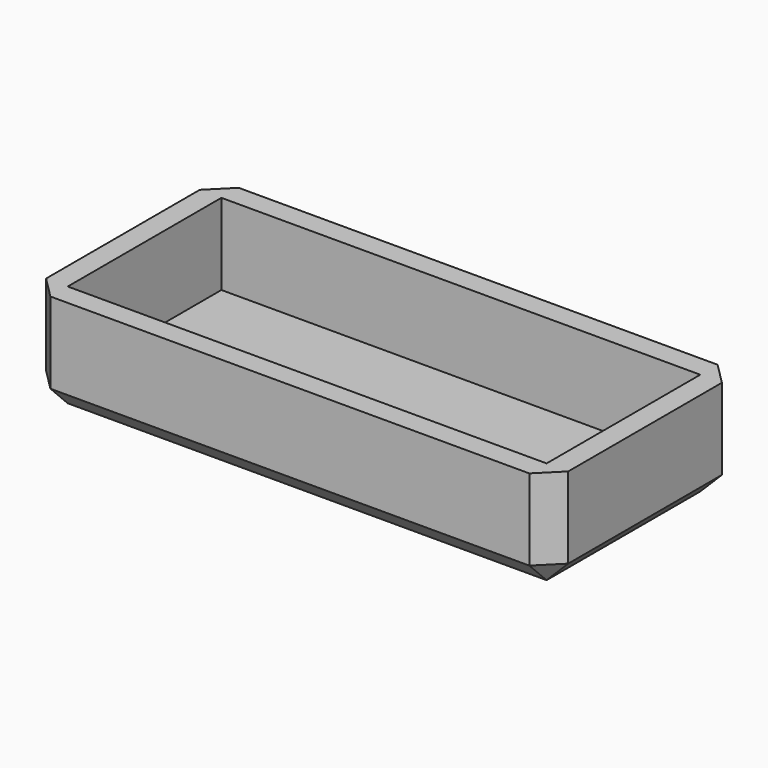
from build123d import *

# Parameters (mm, degrees)
F0_W     = 49.022
F0_H     = 22.098
F1_DEPTH = 9.652
F3_DEPTH = 7.62
F4_SIZE  = 2.032


with BuildPart() as f1:
    # F0 (on Top) → F1 (new body)
    with BuildSketch(Plane.XY):
        Rectangle(F0_W, F0_H)
    extrude(amount=F1_DEPTH)

    # F2 (on face) → F3 (cut)
    with BuildSketch(Plane.XY.offset(9.652)):
        Polygon((22.479, 9.017), (-22.479, 9.017), (-22.479, 4.28625), (-22.479, -4.28625), (-22.479, -9.017), (22.479, -9.017), align=None)
    extrude(amount=-F3_DEPTH, mode=Mode.SUBTRACT)

    # F4
    f4_edges = [f1.edges().sort_by_distance(p)[0] for p in [
        (0, -11.049, 0),
        (24.511, 0, 0),
        (24.511, -11.049, 4.826),
        (24.511, 11.049, 4.826),
        (-24.511, 0, 0),
        (0, 11.049, 0),
        (-24.511, -11.049, 4.826),
        (-24.511, 11.049, 4.826),
    ]]
    chamfer(f4_edges, length=F4_SIZE)


solid = f1.part
